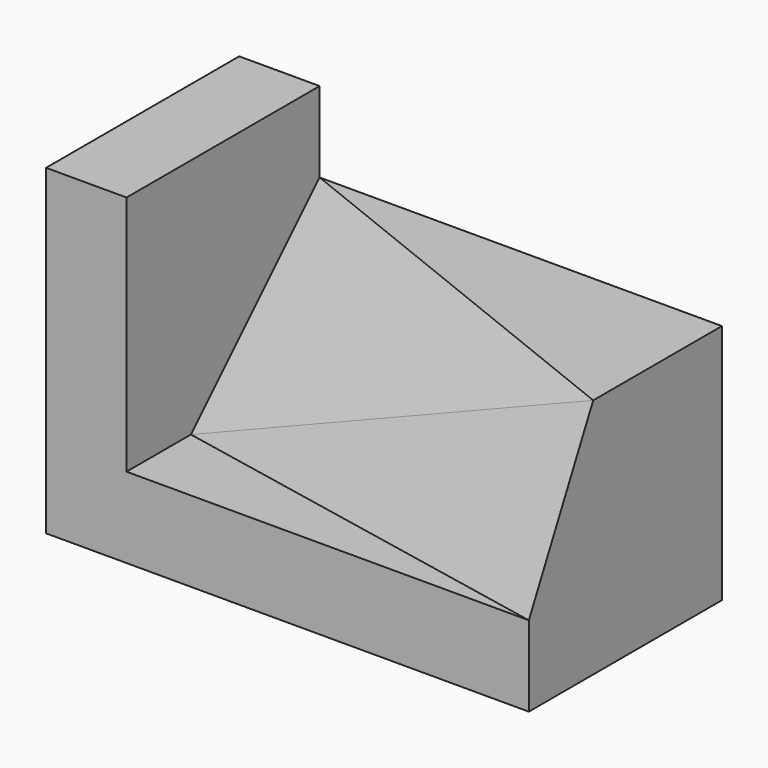
from build123d import *

# Parameters (mm, degrees)
F0_W      = 5
F0_H      = 3
F1_DEPTH  = 3
F3_DEPTH  = 2
F7_DEPTH  = 25
F10_DEPTH = 25
F11_W     = 3
F11_H     = 4
F12_DEPTH = 1


with BuildPart() as f1:
    # F0 (on Top) → F1 (new body)
    with BuildSketch(Plane.XY):
        with Locations((2.5, 1.5)):
            Rectangle(F0_W, F0_H)
    extrude(amount=F1_DEPTH)

    # F2 (on face) → F3 (cut)
    with BuildSketch(Plane.XY.offset(3)):
        Polygon((0, 1), (0, 0), (5, 0), align=None)
        Polygon((0, 1), (0, 0), (5, 0), align=None)
    extrude(amount=-F3_DEPTH, mode=Mode.SUBTRACT)

    # F6 (on 3pt) → F7 (cut)
    with BuildSketch(Plane(origin=(0.0775193798, 0.3875968992, -0.1937984496), x_dir=(-0.9843740387, 0.1574998462, -0.0787499231), z_dir=(0.1760901813, 0.8804509063, -0.4402254532))):
        Polygon((-5.9700050923, 3.0451455805), (-5.0006201166, 0.894427191), (0.0787499231, 1.3416407865), (0.0787499231, 3.577708764), (-5.0006201166, 3.1304951685), align=None)
    extrude(amount=-F7_DEPTH, mode=Mode.SUBTRACT)

    # F9 (on 3pt) → F10 (cut)
    with BuildSketch(Plane(origin=(0, 0, 0), x_dir=(-0.9622504486, 0.1924500897, -0.1924500897), z_dir=(0.272165527, 0.6804138174, -0.6804138174))):
        Polygon((0, 4.2426406871), (-5.1961524227, 2.8284271247), (0, 1.4142135624), (0.5804975871, 4.4006321188), align=None)
    extrude(amount=-F10_DEPTH, mode=Mode.SUBTRACT)

    # F11 (on face) → F12 (join)
    with BuildSketch(Plane(origin=(0, 0, 0), x_dir=(0, -1, 0), z_dir=(-1, 0, 0))):
        with Locations((-1.5, 2)):
            Rectangle(F11_W, F11_H)
    extrude(amount=F12_DEPTH)


solid = f1.part
